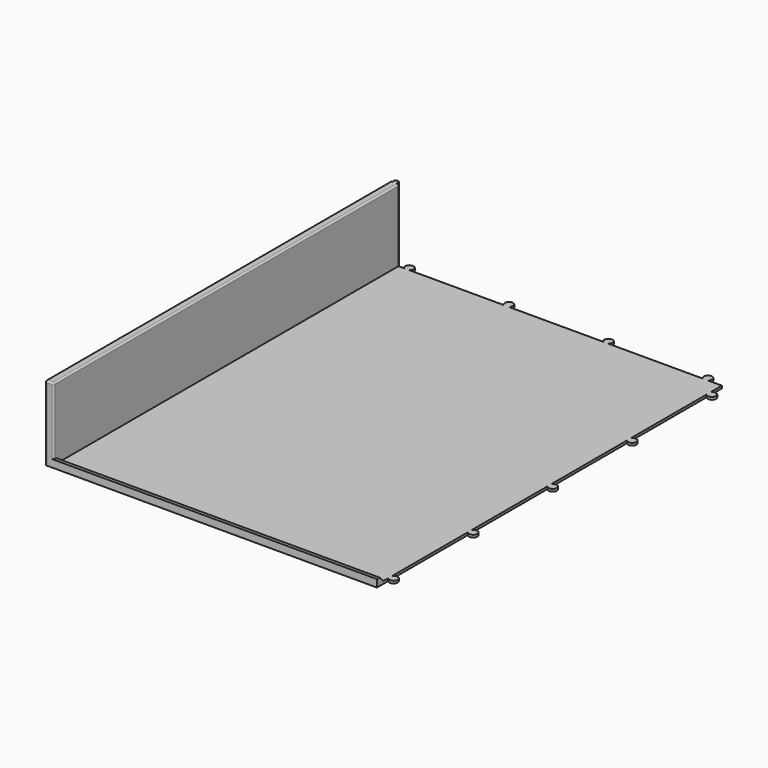
from build123d import *

# Parameters (mm, degrees)
SKETCH001_W            = 200
SKETCH001_H            = 260
PAD_DEPTH              = 1.5
SKETCH002_W            = 5
SKETCH002_H            = 260
PAD001_DEPTH           = 43.5
PAD004_DEPTH           = 195
SKETCH003_R            = 2.5
PAD002_DEPTH           = 1.5
LINEARPATTERN_COUNT    = 5
LINEARPATTERN_PITCH    = 60
SKETCH004_R            = 1.5
PAD003_DEPTH           = 45
SKETCH006_R            = 2.5
PAD005_DEPTH           = 1.5
LINEARPATTERN001_COUNT = 4
LINEARPATTERN001_PITCH = 60
FILLET002_R            = 1


with BuildPart() as part:
    # Sketch001 (on XY_Plane of Origin) → Pad (new body)
    with BuildSketch(Plane.XY):
        with Locations((100, 130)):
            Rectangle(SKETCH001_W, SKETCH001_H)
    extrude(amount=PAD_DEPTH)

    # Sketch002 (on Face6 of Pad) → Pad001 (join)
    with BuildSketch(Plane.XY.offset(1.5)):
        with Locations((2.5, 130)):
            Rectangle(SKETCH002_W, SKETCH002_H)
    extrude(amount=PAD001_DEPTH)

    # Sketch005 (on Face4 of Pad001) → Pad004 (join)
    with BuildSketch(Plane.YZ.offset(5)):
        Polygon((0, 1.5), (0, 4.5), (2, 4.5), (5, 1.5), align=None)
    extrude(amount=PAD004_DEPTH)

    # Sketch003 (on XY_Plane of Origin) → Pad002 (join)
    with BuildSketch(Plane.XY):
        with Locations((202, 10)):
            Circle(SKETCH003_R)
    pad002 = extrude(amount=PAD002_DEPTH)

    # LinearPattern: Pad002 ×5
    with Locations(*[(0, i * LINEARPATTERN_PITCH, 0) for i in range(1, LINEARPATTERN_COUNT)]):
        add(pad002)

    # Sketch004 (on XY_Plane of Origin) → Pad003 (join)
    with BuildSketch(Plane.XY):
        with Locations((2.5, 261)):
            Circle(SKETCH004_R)
    extrude(amount=PAD003_DEPTH)

    # Sketch006 (on XY_Plane of Origin) → Pad005 (join)
    with BuildSketch(Plane.XY):
        with Locations((190, 262)):
            Circle(SKETCH006_R)
    pad005 = extrude(amount=PAD005_DEPTH)

    # LinearPattern001: Pad005 ×4
    with Locations(*[(-i * LINEARPATTERN001_PITCH, 0, 0) for i in range(1, LINEARPATTERN001_COUNT)]):
        add(pad005)

    # Fillet002
    fillet002_edges = [part.edges().sort_by_distance(p)[0] for p in [
        (0, 130, 45),
        (5, 130, 45),
        (2.5, 0, 45),
        (0, 0, 22.5),
        (5, 0, 24.75),
    ]]
    fillet(fillet002_edges, radius=FILLET002_R)


solid = part.part
